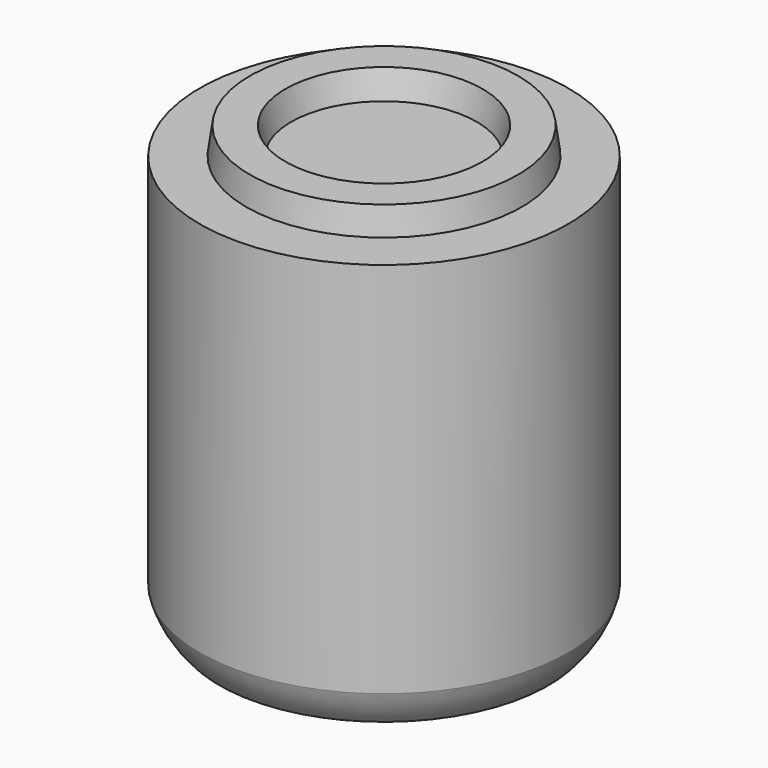
from build123d import *


with BuildPart() as f1:
    # F0 (on Right) → F1 (revolve)
    with BuildSketch(Plane.YZ):
        with BuildLine():
            ThreePointArc((0, -75.439155), (22.177872, -70.495903), (44.511426, -74.679933))
            ThreePointArc((44.511426, -74.679933), (47.744611, -70.257359), (49.825937, -65.189742))
            Line((49.825937, -65.189742), (49.825937, 36.924794))
            Line((49.825937, 36.924794), (37.298877, 36.924794))
            Line((37.298877, 36.924794), (36.262363, 44.263317))
            Line((36.262363, 44.263317), (26.669851, 44.263317))
            Line((26.669851, 44.263317), (25.108413, 36.924794))
            Line((25.108413, 36.924794), (0, 36.924794))
            Line((0, 36.924794), (0, -75.439155))
        make_face()
    revolve(axis=Axis((0, 0, -19.25718), (0, 0, 1)))


solid = f1.part
